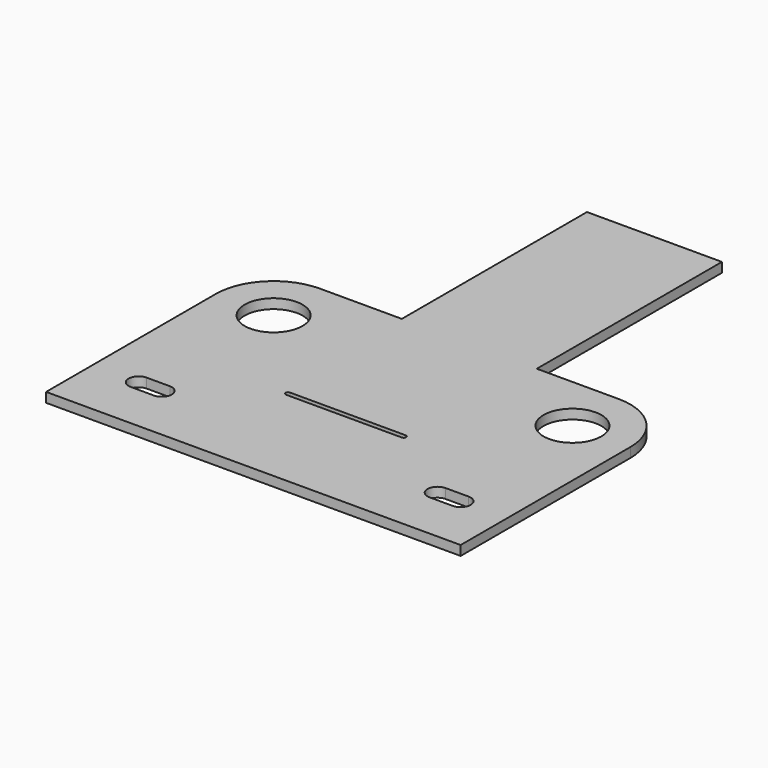
from build123d import *

# Parameters (mm, degrees)
F0_W     = 22.225
F0_H     = 76.2
F1_DEPTH = 3.175


with BuildPart() as f1:
    # F0 (on Top) → F1 (new body)
    with BuildSketch(Plane.XY):
        with BuildLine():
            Line((-68.2625, -19.05), (68.2625, -19.05))
            Line((68.2625, -19.05), (68.2625, 19.05))
            Line((68.2625, 19.05), (68.2625, 50.8))
            ThreePointArc((68.2625, 50.8), (62.6828841816, 64.2703841816), (49.2125, 69.85))
            Line((49.2125, 69.85), (49.2125, 60.325))
            ThreePointArc((49.2125, 60.325), (55.9476920908, 57.5351920908), (58.7375, 50.8))
            ThreePointArc((58.7375, 50.8), (49.2125, 41.275), (39.6875, 50.8))
            Line((39.6875, 50.8), (-39.6875, 50.8))
            ThreePointArc((-39.6875, 50.8), (-55.9476920908, 44.0648079092), (-49.2125, 60.325))
            Line((-49.2125, 60.325), (-49.2125, 69.85))
            ThreePointArc((-49.2125, 69.85), (-62.6828841816, 64.2703841816), (-68.2625, 50.8))
            Line((-68.2625, 50.8), (-68.2625, 19.05))
            Line((-68.2625, 19.05), (-68.2625, -19.05))
        make_face()
        with BuildLine():
            Line((-45.4025, -3.302), (-53.0225, -3.302))
            ThreePointArc((-53.0225, -3.302), (-56.3245, 0), (-53.0225, 3.302))
            Line((-53.0225, 3.302), (-45.4025, 3.302))
            ThreePointArc((-45.4025, 3.302), (-42.1005, 0), (-45.4025, -3.302))
        make_face(mode=Mode.SUBTRACT)
        with BuildLine():
            Line((19.05, 18.25625), (-19.05, 18.25625))
            ThreePointArc((-19.05, 18.25625), (-19.84375, 19.05), (-19.05, 19.84375))
            Line((-19.05, 19.84375), (19.05, 19.84375))
            ThreePointArc((19.05, 19.84375), (19.84375, 19.05), (19.05, 18.25625))
        make_face(mode=Mode.SUBTRACT)
        with BuildLine():
            Line((45.4025, 3.302), (53.0225, 3.302))
            ThreePointArc((53.0225, 3.302), (56.3245, 0), (53.0225, -3.302))
            Line((53.0225, -3.302), (45.4025, -3.302))
            ThreePointArc((45.4025, -3.302), (42.1005, 0), (45.4025, 3.302))
        make_face(mode=Mode.SUBTRACT)
        with BuildLine():
            Line((49.2125, 60.325), (49.2125, 69.85))
            Line((49.2125, 69.85), (22.225, 69.85))
            Line((22.225, 69.85), (0, 69.85))
            Line((0, 69.85), (-22.225, 69.85))
            Line((-22.225, 69.85), (-49.2125, 69.85))
            Line((-49.2125, 69.85), (-49.2125, 60.325))
            ThreePointArc((-49.2125, 60.325), (-42.4773079092, 57.5351920908), (-39.6875, 50.8))
            Line((-39.6875, 50.8), (39.6875, 50.8))
            ThreePointArc((39.6875, 50.8), (42.4773079092, 57.5351920908), (49.2125, 60.325))
        make_face()
        with Locations((11.1125, 107.95)):
            Rectangle(F0_W, F0_H)
        with Locations((-11.1125, 107.95)):
            Rectangle(F0_W, F0_H)
    extrude(amount=F1_DEPTH)


solid = f1.part
